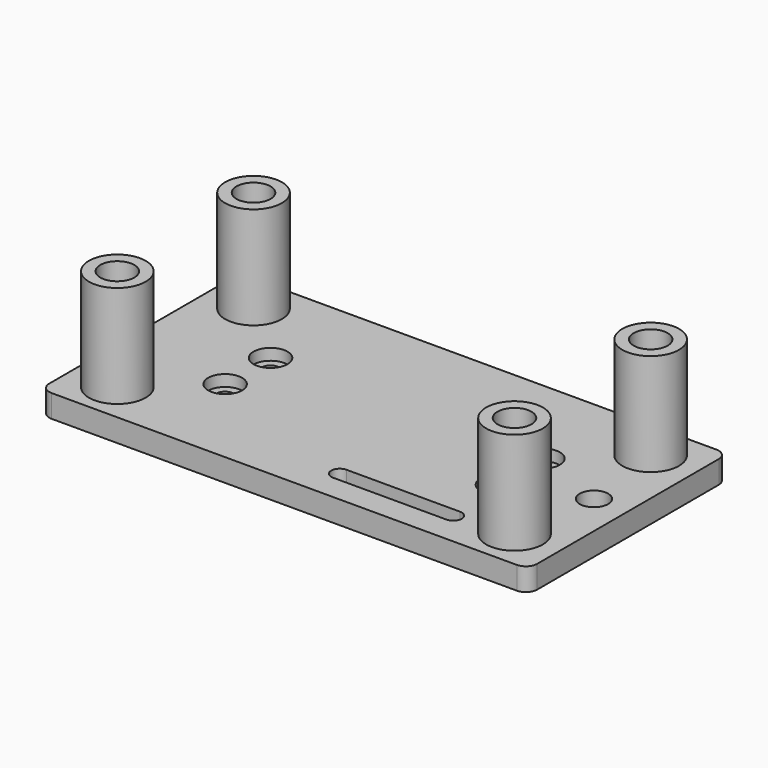
from build123d import *

# Parameters (mm, degrees)
SKETCH_W        = 86
SKETCH_H        = 44
PAD_DEPTH       = 4
SKETCH001_R     = 1.6
POCKET_DEPTH    = 5
SKETCH002_R     = 5
SKETCH002_R_2   = 3
PAD001_DEPTH    = 18
SKETCH003_R     = 1.6
POCKET001_DEPTH = 5
SKETCH004_R     = 3
POCKET002_DEPTH = 2
FILLET_R        = 2
FILLET001_R     = 2
FILLET002_R     = 2
FILLET003_R     = 2
SKETCH006_R     = 2.5
POCKET003_DEPTH = 5


with BuildPart() as part:
    # Sketch → Pad (new body)
    with BuildSketch(Plane.XY):
        with Locations((43, 22)):
            Rectangle(SKETCH_W, SKETCH_H)
    extrude(amount=PAD_DEPTH)

    # Sketch001 → Pocket (cut)
    with BuildSketch(Plane.XY.offset(4)):
        with Locations((8, 37)):
            Circle(SKETCH001_R)
        with Locations((8, 7)):
            Circle(SKETCH001_R)
        with Locations((78, 37)):
            Circle(SKETCH001_R)
        with Locations((78, 7)):
            Circle(SKETCH001_R)
    extrude(amount=-POCKET_DEPTH, mode=Mode.SUBTRACT)

    # Sketch002 → Pad001 (new body)
    with BuildSketch(Plane.XY.offset(4)):
        with Locations((8, 7)):
            Circle(SKETCH002_R)
        with Locations((8, 7)):
            Circle(SKETCH002_R_2, mode=Mode.SUBTRACT)
        with Locations((8, 37)):
            Circle(SKETCH002_R)
        with Locations((8, 37)):
            Circle(SKETCH002_R_2, mode=Mode.SUBTRACT)
        with Locations((78, 37)):
            Circle(SKETCH002_R)
        with Locations((78, 37)):
            Circle(SKETCH002_R_2, mode=Mode.SUBTRACT)
        with Locations((78, 7)):
            Circle(SKETCH002_R)
        with Locations((78, 7)):
            Circle(SKETCH002_R_2, mode=Mode.SUBTRACT)
    extrude(amount=PAD001_DEPTH)

    # Sketch003 → Pocket001 (cut)
    with BuildSketch(Plane(origin=(0, 0, 0), x_dir=(1, 0, 0), z_dir=(0, 0, -1))):
        with Locations((19, -17)):
            Circle(SKETCH003_R)
        with Locations((67, -17)):
            Circle(SKETCH003_R)
        with Locations((67, -27)):
            Circle(SKETCH003_R)
        with Locations((19, -27)):
            Circle(SKETCH003_R)
    extrude(amount=-POCKET001_DEPTH, mode=Mode.SUBTRACT)

    # Sketch004 → Pocket002 (cut)
    with BuildSketch(Plane.XY.offset(4)):
        with Locations((19, 27)):
            Circle(SKETCH004_R)
        with Locations((19, 17)):
            Circle(SKETCH004_R)
        with Locations((67, 27)):
            Circle(SKETCH004_R)
        with Locations((67, 17)):
            Circle(SKETCH004_R)
    extrude(amount=-POCKET002_DEPTH, mode=Mode.SUBTRACT)

    # Fillet
    fillet_edges = [part.edges().sort_by_distance(p)[0] for p in [
        (86, 44, 2),
    ]]
    fillet(fillet_edges, radius=FILLET_R)

    # Fillet001
    fillet001_edges = [part.edges().sort_by_distance(p)[0] for p in [
        (86, 0, 2),
    ]]
    fillet(fillet001_edges, radius=FILLET001_R)

    # Fillet002
    fillet002_edges = [part.edges().sort_by_distance(p)[0] for p in [
        (0, 0, 2),
    ]]
    fillet(fillet002_edges, radius=FILLET002_R)

    # Fillet003
    fillet003_edges = [part.edges().sort_by_distance(p)[0] for p in [
        (0, 44, 2),
    ]]
    fillet(fillet003_edges, radius=FILLET003_R)

    # Sketch006 → Pocket003 (cut)
    with BuildSketch(Plane(origin=(0, 0, 0), x_dir=(1, 0, 0), z_dir=(0, 0, -1))):
        with Locations((80, -22)):
            Circle(SKETCH006_R)
        with BuildLine():
            ThreePointArc((48, -4.5), (46.5, -6), (48, -7.5))
            Line((48, -7.5), (68, -7.5))
            ThreePointArc((68, -7.5), (69.5, -6), (68, -4.5))
            Line((48, -4.5), (68, -4.5))
        make_face()
    extrude(amount=-POCKET003_DEPTH, mode=Mode.SUBTRACT)


solid = part.part
